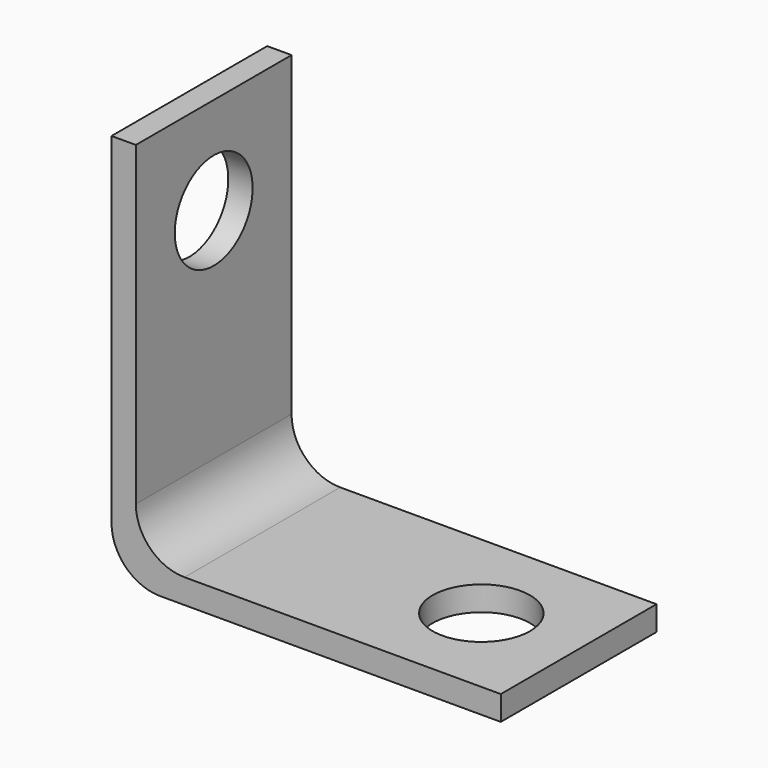
from build123d import *

# Parameters (mm, degrees)
F1_DEPTH = 6.35
F2_R     = 3.175
F3_DEPTH = 5.08
F4_R     = 3.175
F5_DEPTH = 5.08


with BuildPart() as f1:
    # F0 (on Front) → F1 (new body, symmetric)
    with BuildSketch(Plane.XZ):
        with BuildLine():
            Line((-22.225, 0), (0, 0))
            Line((0, 0), (0, 1.6002))
            Line((0, 1.6002), (-20.6375, 1.6002))
            ThreePointArc((-20.6375, 1.6002), (-22.882564, 2.530136), (-23.8125, 4.7752))
            Line((-23.8125, 4.7752), (-23.8125, 25.4))
            Line((-23.8125, 25.4), (-25.4, 25.4))
            Line((-25.4, 25.4), (-25.4, 3.175))
            ThreePointArc((-25.4, 3.175), (-24.470064, 0.929936), (-22.225, 0))
        make_face()
    extrude(amount=F1_DEPTH, both=True)

    # F2 (on face) → F3 (cut)
    with BuildSketch(Plane(origin=(-25.4, 0, 0), x_dir=(0, -1, 0), z_dir=(-1, 0, 0))):
        with Locations((0, 19.05)):
            Circle(F2_R)
    extrude(amount=-F3_DEPTH, mode=Mode.SUBTRACT)

    # F4 (on face) → F5 (cut)
    with BuildSketch(Plane.XY.offset(1.6002)):
        with Locations((-6.35, 0)):
            Circle(F4_R)
    extrude(amount=-F5_DEPTH, mode=Mode.SUBTRACT)


solid = f1.part
